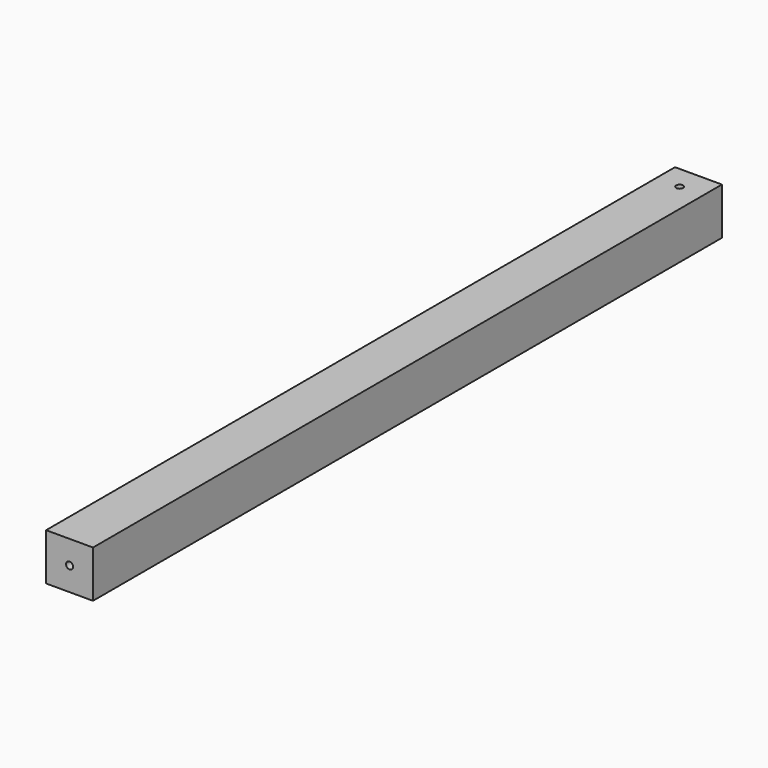
from build123d import *

# Parameters (mm, degrees)
F0_W     = 40
F0_H     = 40
F1_DEPTH = 670
F2_R     = 3
F3_DEPTH = 12
F4_R     = 3
F5_DEPTH = 12
F6_R     = 3
F7_DEPTH = 12


with BuildPart() as f1:
    # F0 (on Front) → F1 (new body)
    with BuildSketch(Plane.XZ):
        with Locations((20, 20)):
            Rectangle(F0_W, F0_H)
    extrude(amount=F1_DEPTH)

    # F2 (on face) → F3 (cut)
    with BuildSketch(Plane.XZ.offset(670)):
        with Locations((20, 20)):
            Circle(F2_R)
    extrude(amount=-F3_DEPTH, mode=Mode.SUBTRACT)

    # F4 (on face) → F5 (cut)
    with BuildSketch(Plane(origin=(0, 0, 0), x_dir=(0, -1, 0), z_dir=(-1, 0, 0))):
        with Locations((20, 20)):
            Circle(F4_R)
    extrude(amount=-F5_DEPTH, mode=Mode.SUBTRACT)

    # F6 (on face) → F7 (cut)
    with BuildSketch(Plane.XY.offset(40)):
        with Locations((20, -20)):
            Circle(F6_R)
    extrude(amount=-F7_DEPTH, mode=Mode.SUBTRACT)


solid = f1.part
